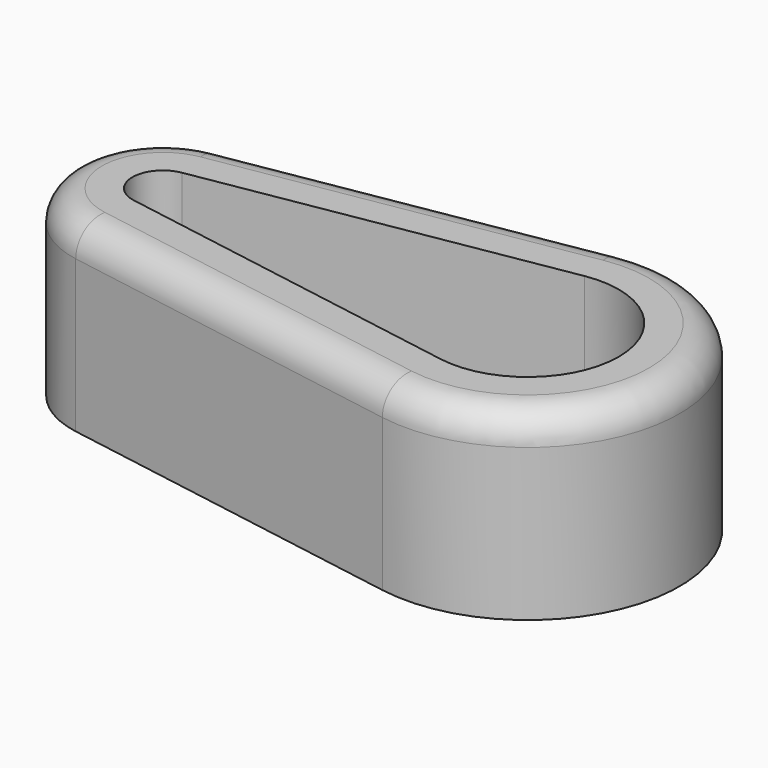
from build123d import *

# Parameters (mm, degrees)
F1_DEPTH = 30
F2_R     = 5


with BuildPart() as f1:
    # F0 (on Top) → F1 (new body)
    with BuildSketch(Plane.XY):
        with BuildLine():
            Line((55.833333, 24.650332), (-2.5, 14.790199))
            ThreePointArc((-2.5, 14.790199), (-15, 0), (-2.5, -14.790199))
            Line((-2.5, -14.790199), (55.833333, -24.650332))
            ThreePointArc((55.833333, -24.650332), (85, 0), (55.833333, 24.650332))
        make_face()
        with BuildLine():
            ThreePointArc((-0.833333, -4.930066), (-5, 0), (-0.833333, 4.930066))
            Line((-0.833333, 4.930066), (57.5, 14.790199))
            ThreePointArc((57.5, 14.790199), (75, 0), (57.5, -14.790199))
            Line((57.5, -14.790199), (-0.833333, -4.930066))
        make_face(mode=Mode.SUBTRACT)
    extrude(amount=F1_DEPTH)

    # F2
    f2_edges = [f1.edges().sort_by_distance(p)[0] for p in [
        (-15, 0, 30),
        (26.666667, -19.720266, 30),
        (85, 0, 30),
        (26.666667, 19.720266, 30),
    ]]
    fillet(f2_edges, radius=F2_R)


solid = f1.part
